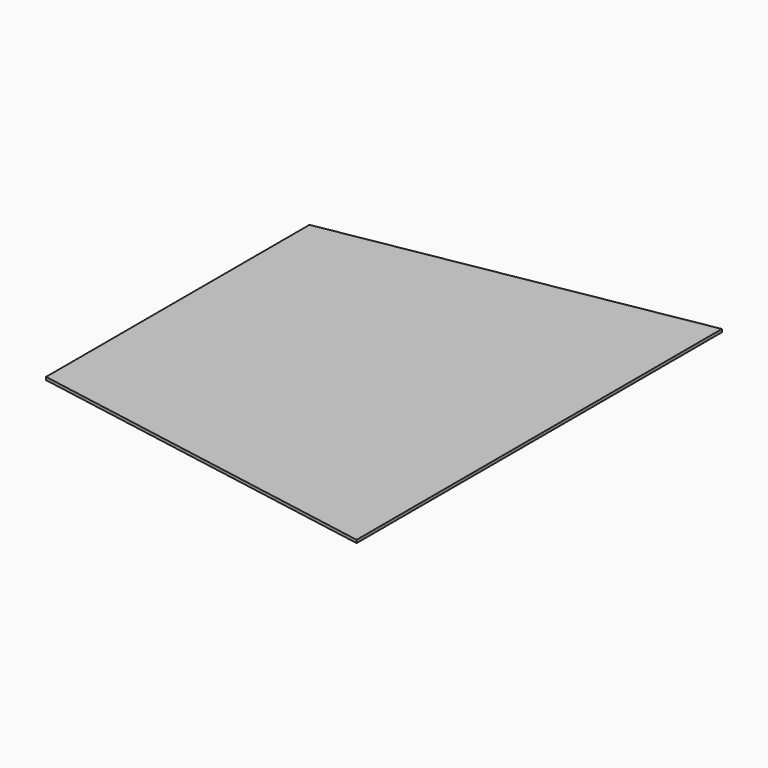
from build123d import *

# Parameters (mm, degrees)
F1_DEPTH = 12.7


with BuildPart() as f1:
    # F0 (on Top) → F1 (new body)
    with BuildSketch(Plane.XY):
        Polygon((754.207993, 1020.456922), (-807.892007, 745.016546), (-807.892007, 33.816546), (754.207993, 33.816546), align=None)
    extrude(amount=F1_DEPTH)

    # F2: F1 across face


with BuildPart() as f1_1:
    add(f1.part)
    add(f1.part.mirror(Plane(origin=(-26.842007, 33.816546, 6.35), x_dir=(1, 0, 0), z_dir=(0, -1, 0))))


solid = f1_1.part
